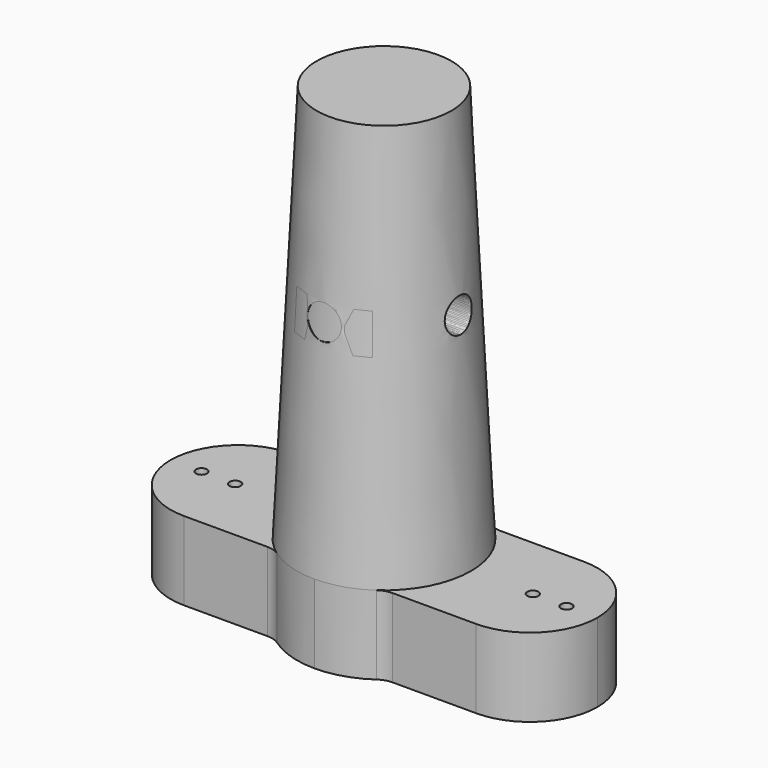
from build123d import *

# Parameters (mm, degrees)
PAD_DEPTH                  = 7
PAD_MIRRORED_2_DEPTH       = 7
SKETCH002_R                = 0.5
POCKET_DEPTH               = 42.501
SKETCH007_R                = 1.5
POCKET002_DEPTH            = 19.001
POCKET002_DEPTH_BACK       = -19.001
SKETCH011_R                = 1.5
PAD002_DEPTH               = 12.75
SKETCH012_R                = 1.5
PAD003_DEPTH               = 15.5
PAD001_DEPTH               = 7
PAD001_MIRRORED002_2_DEPTH = 7
SKETCH010_R                = 0.5
POCKET003_DEPTH            = 42.501


with BuildPart() as obj1:
    # Sketch → Pad (new body)
    with BuildSketch(Plane.XY):
        with BuildLine():
            Line((5.573374, 6), (13, 6))
            ThreePointArc((19, 0), (17.242641, 4.242641), (13, 6))
            Line((0, 0), (19, 0))
            Line((0, 7.75), (0, 0))
            ThreePointArc((4.430118, 6.358974), (2.321686, 7.39407), (0, 7.75))
            ThreePointArc((4.430118, 6.358974), (4.97423, 6.091853), (5.573374, 6))
        make_face()
    pad = extrude(amount=PAD_DEPTH)

    # Sketch Mirrored 2 → Pad Mirrored 2 (add)
    with BuildSketch(Plane(origin=(0, 0, 0), x_dir=(-1, 0, 0), z_dir=(0, 0, -1))):
        with BuildLine():
            Line((5.573374, 6), (13, 6))
            ThreePointArc((19, 0), (17.242641, 4.242641), (13, 6))
            Line((0, 0), (19, 0))
            Line((0, 7.75), (0, 0))
            ThreePointArc((4.430118, 6.358974), (2.321686, 7.39407), (0, 7.75))
            ThreePointArc((4.430118, 6.358974), (4.97423, 6.091853), (5.573374, 6))
        make_face()
    pad_mirrored_2 = extrude(amount=-PAD_MIRRORED_2_DEPTH)

    # Mirrored001: Pad, Pad Mirrored 2 across Sketch H_Axis
    add(pad.mirror(Plane.ZX))
    add(pad_mirrored_2.mirror(Plane.ZX))

    # Sketch001 → Revolution (revolve)
    with BuildSketch(Plane.XZ):
        Polygon((0, 7), (0, 42.5), (6, 42.5), (7.75, 7), align=None)
    revolve(axis=Axis((0, 0, 0), (0, 0, 1)))

    # Sketch002 → Pocket (cut, through all)
    with BuildSketch(Plane.XY):
        with Locations((16.25, 0)):
            Circle(SKETCH002_R)
        with Locations((13.25, 0)):
            Circle(SKETCH002_R)
        with Locations((-13.25, 0)):
            Circle(SKETCH002_R)
        with Locations((-16.25, 0)):
            Circle(SKETCH002_R)
    extrude(amount=POCKET_DEPTH, mode=Mode.SUBTRACT)

    # Sketch007 → Pocket002 (cut, two sides)
    with BuildSketch(Plane.YZ) as pocket002_sk:
        with Locations((0, 26.75)):
            Circle(SKETCH007_R)
    extrude(amount=-POCKET002_DEPTH, mode=Mode.SUBTRACT)
    extrude(pocket002_sk.sketch, amount=-POCKET002_DEPTH_BACK, mode=Mode.SUBTRACT)


with BuildPart() as hole:
    # Sketch011 → Pad002 (new body, symmetric)
    with BuildSketch(Plane.YZ):
        with Locations((0, 26.75)):
            Circle(SKETCH011_R)
    extrude(amount=PAD002_DEPTH, both=True)

    # Sketch012 → Pad003 (join)
    with BuildSketch(Plane.XZ):
        with Locations((0, 26.75)):
            Circle(SKETCH012_R)
    extrude(amount=PAD003_DEPTH)


with BuildPart() as cut:
    # Sketch008 → Pad001 (new body)
    with BuildSketch(Plane.XY):
        with BuildLine():
            Line((5.573374, 6), (13, 6))
            ThreePointArc((19, 0), (17.242641, 4.242641), (13, 6))
            Line((0, 0), (19, 0))
            Line((0, 7.75), (0, 0))
            ThreePointArc((4.430118, 6.358974), (2.321686, 7.39407), (0, 7.75))
            ThreePointArc((4.430118, 6.358974), (4.97423, 6.091853), (5.573374, 6))
        make_face()
    pad001 = extrude(amount=PAD001_DEPTH)

    # Sketch008 Mirrored002 2 → Pad001 Mirrored002 2 (add)
    with BuildSketch(Plane(origin=(0, 0, 0), x_dir=(-1, 0, 0), z_dir=(0, 0, -1))):
        with BuildLine():
            Line((5.573374, 6), (13, 6))
            ThreePointArc((19, 0), (17.242641, 4.242641), (13, 6))
            Line((0, 0), (19, 0))
            Line((0, 7.75), (0, 0))
            ThreePointArc((4.430118, 6.358974), (2.321686, 7.39407), (0, 7.75))
            ThreePointArc((4.430118, 6.358974), (4.97423, 6.091853), (5.573374, 6))
        make_face()
    pad001_mirrored002_2 = extrude(amount=-PAD001_MIRRORED002_2_DEPTH)

    # Mirrored003: Pad001, Pad001 Mirrored002 2 across Sketch008 H_Axis
    add(pad001.mirror(Plane.ZX))
    add(pad001_mirrored002_2.mirror(Plane.ZX))

    # Sketch009 → Revolution001 (revolve)
    with BuildSketch(Plane.XZ):
        Polygon((0, 7), (0, 42.5), (6, 42.5), (7.75, 7), align=None)
    revolve(axis=Axis((0, 0, 0), (0, 0, 1)))

    # Sketch010 → Pocket003 (cut, through all)
    with BuildSketch(Plane.XY):
        with Locations((16.25, 0)):
            Circle(SKETCH010_R)
        with Locations((13.25, 0)):
            Circle(SKETCH010_R)
        with Locations((-13.25, 0)):
            Circle(SKETCH010_R)
        with Locations((-16.25, 0)):
            Circle(SKETCH010_R)
    extrude(amount=POCKET003_DEPTH, mode=Mode.SUBTRACT)

    # Cut: cut hole
    add(hole.part, mode=Mode.SUBTRACT)


solid = Compound([obj1.part, cut.part])
